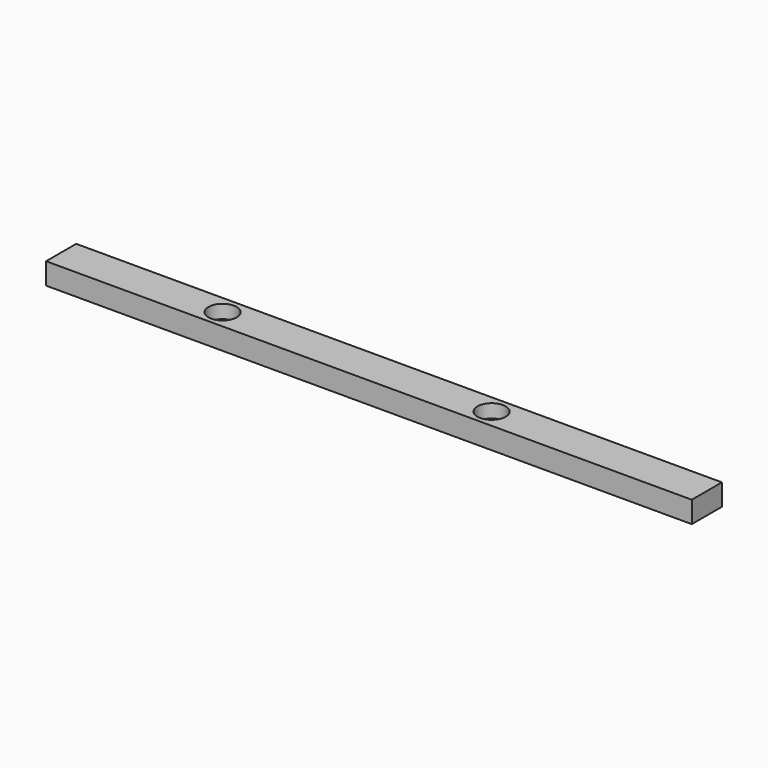
from build123d import *

# Parameters (mm, degrees)
F0_W     = 240
F0_H     = 14
F1_DEPTH = 8
F2_R     = 2.6
F3_DEPTH = 8.001
F2_R_2   = 5.25
F4_DEPTH = 5


with BuildPart() as f1:
    # F0 (on Top) → F1 (new body)
    with BuildSketch(Plane.XY):
        Rectangle(F0_W, F0_H)
    extrude(amount=F1_DEPTH)

    # F2 (on face) → F3 (cut, through all)
    with BuildSketch(Plane.XY.offset(8)):
        with Locations((-60, 0)):
            Circle(F2_R)
        with Locations((40, 0)):
            Circle(F2_R)
    extrude(amount=-F3_DEPTH, mode=Mode.SUBTRACT)

    # F2 (on face) → F4 (cut)
    with BuildSketch(Plane.XY.offset(8)):
        with Locations((-60, 0)):
            Circle(F2_R_2)
        with Locations((-60, 0)):
            Circle(F2_R, mode=Mode.SUBTRACT)
        with Locations((40, 0)):
            Circle(F2_R_2)
        with Locations((40, 0)):
            Circle(F2_R, mode=Mode.SUBTRACT)
    extrude(amount=-F4_DEPTH, mode=Mode.SUBTRACT)


solid = f1.part
